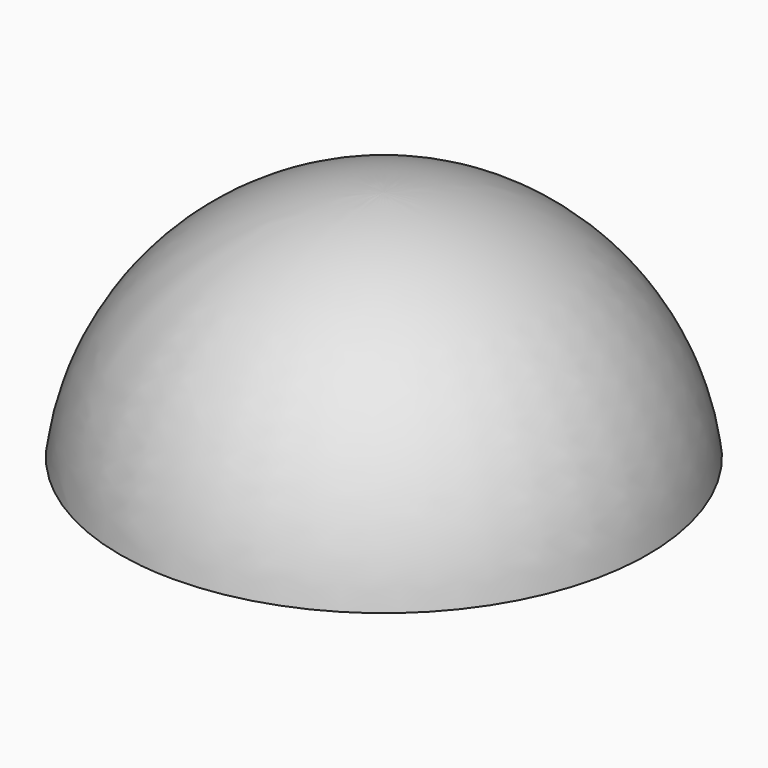
from build123d import *

# Parameters (mm, degrees)
F2_W          = 153.245344758
F2_H          = 83.8886424899
F3_DEPTH      = 50.8
F3_DEPTH_BACK = 127


with BuildPart() as f1:
    # F0 (on Right) → F1 (revolve)
    with BuildSketch(Plane.YZ):
        with BuildLine():
            Line((-29.1859079152, -71.8309002221), (-29.1859079152, 55.1690997779))
            ThreePointArc((-29.1859079152, 55.1690997779), (-92.3114900999, -8.3309002221), (-29.1859079152, -71.8309002221))
        make_face()
    revolve(axis=Axis((0, -29.1859079152, -8.3309002221), (0, 0, -1)))

    # F2 (on Front) → F3 (cut, two sides)
    with BuildSketch(Plane.XZ) as f3_sk:
        with Locations((-0.3178194165, -41.944321245)):
            Rectangle(F2_W, F2_H)
    extrude(amount=-F3_DEPTH, mode=Mode.SUBTRACT)
    extrude(f3_sk.sketch, amount=F3_DEPTH_BACK, mode=Mode.SUBTRACT)


solid = f1.part
